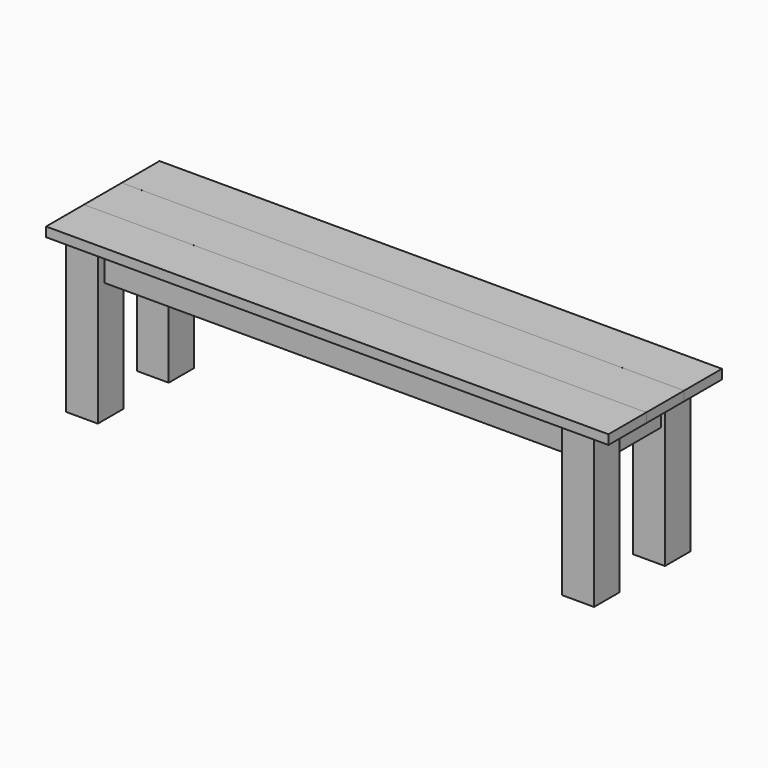
from build123d import *

# Parameters (mm, degrees)
F0_W     = 1511.3
F0_H     = 127
F2_DEPTH = 25.4
F1_W     = 85.725
F1_H     = 85.725
F3_DEPTH = 419.1
F4_W     = 20.32
F4_H     = 95.25
F5_DEPTH = 1247.775
F6_W     = 20.32
F6_H     = 95.25
F7_DEPTH = 152.4


with BuildPart() as f2:
    # F0 (on Top) → F2 (new body)
    with BuildSketch(Plane.XY):
        with Locations((755.65, -63.5)):
            Rectangle(F0_W, F0_H)
        with Locations((755.65, 63.50254)):
            Rectangle(F0_W, F0_H)
        with Locations((755.65, 190.50508)):
            Rectangle(F0_W, F0_H)
    extrude(amount=F2_DEPTH)


with BuildPart() as f3:
    # F1 (on face) → F3 (new body)
    with BuildSketch(Plane.XY):
        with Locations((68.2625, 188.9125)):
            Rectangle(F1_W, F1_H)
        with Locations((68.2625, -49.2125)):
            Rectangle(F1_W, F1_H)
        with Locations((1401.7625, 188.9125)):
            Rectangle(F1_W, F1_H)
        with Locations((1401.7625, -49.2125)):
            Rectangle(F1_W, F1_H)
    extrude(amount=-F3_DEPTH)


with BuildPart() as f5:
    # F4 (on face) → F5 (new body, through all)
    with BuildSketch(Plane.YZ.offset(111.125)):
        with Locations((-59.3725, -47.625)):
            Rectangle(F4_W, F4_H)
        with Locations((207.3275, -47.625)):
            Rectangle(F4_W, F4_H)
    extrude(amount=F5_DEPTH)


with BuildPart() as f7:
    # F6 (on face) → F7 (new body)
    with BuildSketch(Plane.XZ.offset(-146.05)):
        with Locations((58.1025, -47.625)):
            Rectangle(F6_W, F6_H)
        with Locations((1423.3525, -47.625)):
            Rectangle(F6_W, F6_H)
    extrude(amount=F7_DEPTH)


solid = Compound([f2.part, f3.part, f5.part, f7.part])
